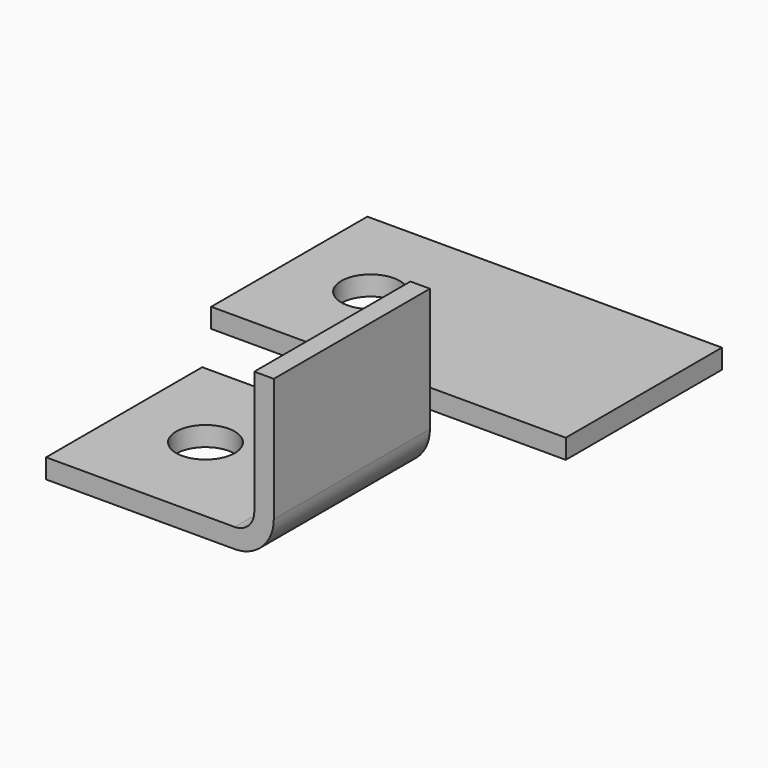
from build123d import *

# Parameters (mm, degrees)
F1_DEPTH = 60
F2_R     = 9
F3_DEPTH = 25
F4_W     = 109
F4_H     = 60
F4_R     = 9
F5_DEPTH = 6


with BuildPart() as f1:
    # F0 (on Front) → F1 (new body)
    with BuildSketch(Plane.XZ):
        with BuildLine():
            Line((-70, 6), (-70, 0))
            Line((-70, 0), (-12, 0))
            ThreePointArc((-12, 0), (-3.514719, 3.514719), (0, 12))
            Line((0, 12), (0, 50))
            Line((0, 50), (-6, 50))
            Line((-6, 50), (-6, 12))
            ThreePointArc((-6, 12), (-7.757359, 7.757359), (-12, 6))
            Line((-12, 6), (-70, 6))
        make_face()
    extrude(amount=F1_DEPTH)

    # F2 (on face) → F3 (cut)
    with BuildSketch(Plane(origin=(0, 0, 0), x_dir=(1, 0, 0), z_dir=(0, 0, -1))):
        with Locations((-45, 30)):
            Circle(F2_R)
    extrude(amount=-F3_DEPTH, mode=Mode.SUBTRACT)


with BuildPart() as f5:
    # F4 (on Top) → F5 (new body)
    with BuildSketch(Plane.XY):
        with Locations((-33.446243, 55.879757)):
            Rectangle(F4_W, F4_H)
        with Locations((-62.946243, 55.879757)):
            Circle(F4_R, mode=Mode.SUBTRACT)
    extrude(amount=F5_DEPTH)


solid = Compound([f1.part, f5.part])
